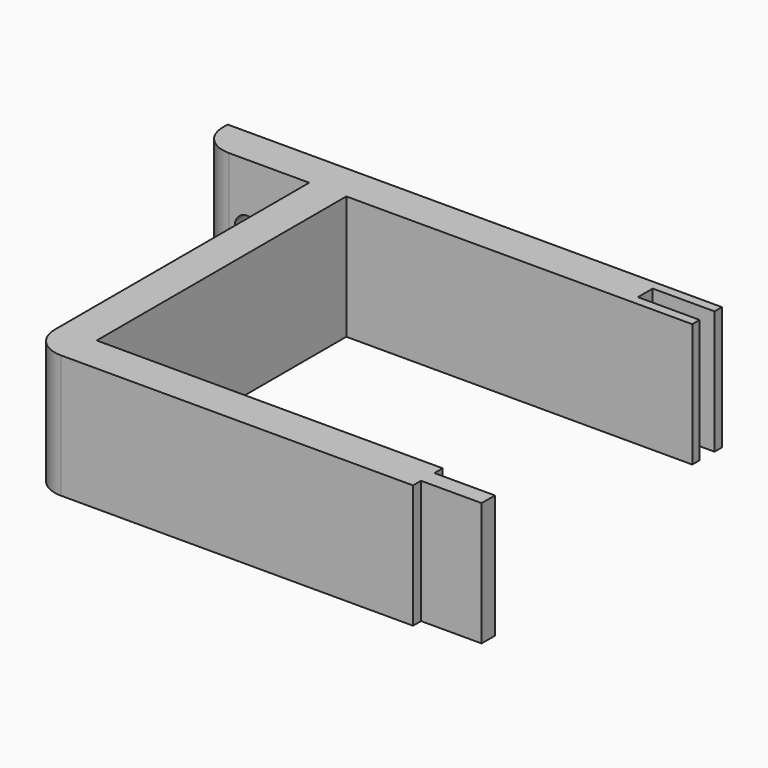
from build123d import *

# Parameters (mm, degrees)
F0_W     = 112
F0_H     = 50.5
F1_DEPTH = 20
F2_R     = 5
F4_D     = 4.1
F6_DEPTH = 20
F7_W     = 58.122847
F7_H     = 6
F8_DEPTH = 1


with BuildPart() as f1:
    # F0 (on Top) → F1 (new body)
    with BuildSketch(Plane.XY):
        Polygon((80, 3), (-80, 3), (-80, -3), (-62, -3), (-62, -59.5), (62, -59.5), (62, -3), (80, -3), align=None)
        with Locations((0, -28.25)):
            Rectangle(F0_W, F0_H, mode=Mode.SUBTRACT)
    extrude(amount=F1_DEPTH)

    # F2
    f2_edges = [f1.edges().sort_by_distance(p)[0] for p in [
        (62, -59.5, 10),
        (-62, -59.5, 10),
        (-80, -3, 10),
        (80, -3, 10),
    ]]
    fillet(f2_edges, radius=F2_R)

    # F4 (through all)
    with Locations(Plane(origin=(0, 3, 0), x_dir=(-1, 0, 0), z_dir=(0, 1, 0))):
        with Locations((-72, 10), (72, 10)):
            Hole(F4_D / 2)

    # F5 (on face) → F6 (cut, through all)
    with BuildSketch(Plane.XY.offset(20)):
        with BuildLine():
            Line((0, -55.17533), (9.8, -55.17533))
            Line((9.8, -55.17533), (9.8, -57.87533))
            Line((9.8, -57.87533), (0, -57.87533))
            Line((0, -57.87533), (0, -59.5))
            Line((0, -59.5), (57, -59.5))
            ThreePointArc((57, -59.5), (60.535534, -58.035534), (62, -54.5))
            Line((62, -54.5), (62, -3))
            Line((62, -3), (75, -3))
            ThreePointArc((75, -3), (78.535534, -1.535534), (80, 2))
            Line((80, 2), (80, 3))
            Line((80, 3), (0, 3))
            Line((0, 3), (0, 1.5))
            Line((0, 1.5), (-10, 1.5))
            Line((-10, 1.5), (-10, -1.5))
            Line((-10, -1.5), (0, -1.5))
            Line((0, -1.5), (0, -3))
            Line((0, -3), (56, -3))
            Line((56, -3), (56, -53.5))
            Line((56, -53.5), (0, -53.5))
            Line((0, -53.5), (0, -55.17533))
        make_face()
    extrude(amount=-F6_DEPTH, mode=Mode.SUBTRACT)

    # F7 (on face) → F8 (join)
    with BuildSketch(Plane(origin=(0, 3, 0), x_dir=(-1, 0, 0), z_dir=(0, 1, 0))):
        with Locations((37.804018, 10)):
            Rectangle(F7_W, F7_H)
    extrude(amount=F8_DEPTH)


solid = f1.part
